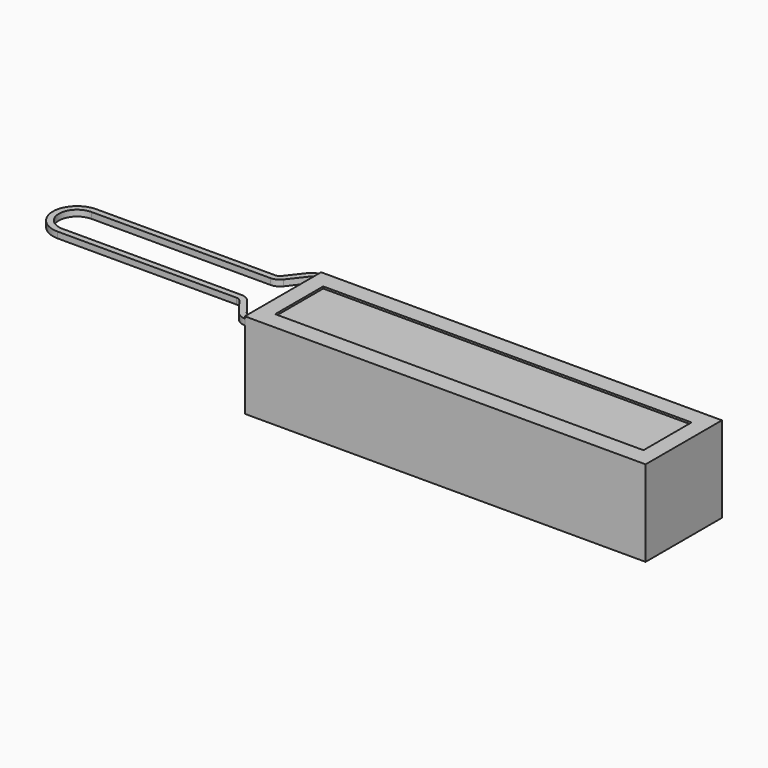
from build123d import *

# Parameters (mm, degrees)
F0_W     = 105.0036
F0_H     = 24.9936
F1_DEPTH = 21.9964
F3_DEPTH = 1.5875
F4_R     = 1.5875
F5_R     = 3.175
F6_W     = 105.034594
F6_H     = 24.9936
F6_W_2   = 96.52
F6_H_2   = 15.748
F7_DEPTH = 0.508


with BuildPart() as f1:
    # F0 (on Top) → F1 (new body)
    with BuildSketch(Plane.XY):
        with Locations((-52.5018, 12.4968)):
            Rectangle(F0_W, F0_H)
    extrude(amount=F1_DEPTH)

    # F2 (on face) → F3 (join)
    with BuildSketch(Plane.XY.offset(21.9964)):
        with BuildLine():
            Line((-111.3536, 18.8468), (-158.9786, 18.8468))
            ThreePointArc((-158.9786, 18.8468), (-165.3286, 12.4968), (-158.9786, 6.1468))
            Line((-158.9786, 6.1468), (-111.3536, 6.1468))
            Line((-111.3536, 6.1468), (-106.5911, 0))
            Line((-106.5911, 0), (-105.0036, 0))
            Line((-105.0036, 0), (-105.0036, 1.5875))
            Line((-105.0036, 1.5875), (-105.812847, 1.5875))
            Line((-105.812847, 1.5875), (-110.575347, 7.7343))
            Line((-110.575347, 7.7343), (-158.978601, 7.7343))
            ThreePointArc((-158.978601, 7.7343), (-163.7411, 12.4968), (-158.9786, 17.2593))
            Line((-158.9786, 17.2593), (-110.575347, 17.2593))
            Line((-110.575347, 17.2593), (-105.812847, 23.4061))
            Line((-105.812847, 23.4061), (-105.0036, 23.4061))
            Line((-105.0036, 23.4061), (-105.0036, 24.9936))
            Line((-105.0036, 24.9936), (-106.5911, 24.9936))
            Line((-106.5911, 24.9936), (-111.3536, 18.8468))
        make_face()
    extrude(amount=-F3_DEPTH)

    # F4
    f4_edges = [f1.edges().sort_by_distance(p)[0] for p in [
        (-111.3536, 18.8468, 21.20265),
        (-105.812847, 23.4061, 21.20265),
        (-111.3536, 6.1468, 21.20265),
        (-105.812847, 1.5875, 21.20265),
    ]]
    fillet(f4_edges, radius=F4_R)

    # F5
    f5_edges = [f1.edges().sort_by_distance(p)[0] for p in [
        (-110.575347, 7.7343, 21.20265),
        (-106.5911, 24.9936, 21.20265),
        (-110.575347, 17.2593, 21.20265),
        (-106.5911, 0, 21.20265),
    ]]
    fillet(f5_edges, radius=F5_R)

    # F6 (on face) → F7 (join)
    with BuildSketch(Plane.XY.offset(21.9964)):
        with Locations((-52.517297, 12.4968)):
            Rectangle(F6_W, F6_H)
        with Locations((-52.517554, 12.4968)):
            Rectangle(F6_W_2, F6_H_2, mode=Mode.SUBTRACT)
    extrude(amount=F7_DEPTH)


solid = f1.part
